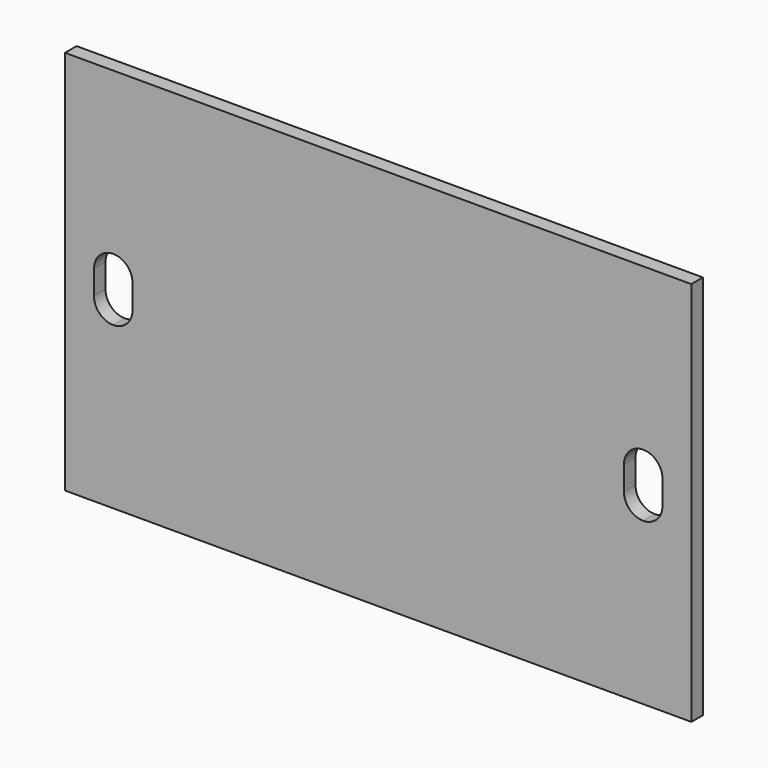
from build123d import *

# Parameters (mm, degrees)
F0_W     = 260
F0_H     = 160
F1_DEPTH = 6
F3_DEPTH = 6.001


with BuildPart() as f1:
    # F0 (on Front) → F1 (new body)
    with BuildSketch(Plane.XZ):
        Rectangle(F0_W, F0_H)
    extrude(amount=F1_DEPTH)

    # F2 (on face) → F3 (cut, through all)
    with BuildSketch(Plane.XZ.offset(6)):
        with BuildLine():
            ThreePointArc((-110, -13), (-104.343146, -10.656854), (-102, -5))
            Line((-102, -5), (-102, 5))
            ThreePointArc((-102, 5), (-104.343146, 10.656854), (-110, 13))
            ThreePointArc((-110, 13), (-115.656854, 10.656854), (-118, 5))
            Line((-118, 5), (-118, -5))
            ThreePointArc((-118, -5), (-115.656854, -10.656854), (-110, -13))
        make_face()
        with BuildLine():
            ThreePointArc((110, -13), (115.656854, -10.656854), (118, -5))
            Line((118, -5), (118, 5))
            ThreePointArc((118, 5), (115.656854, 10.656854), (110, 13))
            ThreePointArc((110, 13), (104.343146, 10.656854), (102, 5))
            Line((102, 5), (102, -5))
            ThreePointArc((102, -5), (104.343146, -10.656854), (110, -13))
        make_face()
    extrude(amount=-F3_DEPTH, mode=Mode.SUBTRACT)


solid = f1.part
